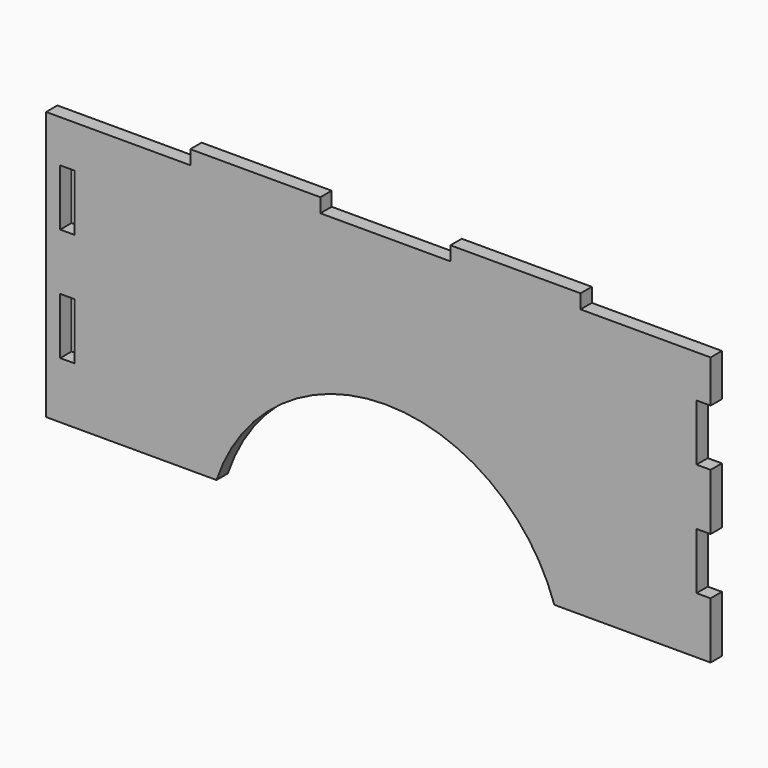
from build123d import *

# Parameters (mm, degrees)
F0_W     = 5
F0_H     = 20
F1_DEPTH = 5


with BuildPart() as f1:
    # F0 (on Front) → F1 (new body)
    with BuildSketch(Plane.XZ):
        with BuildLine():
            Line((59.741108, -47.5), (110, -47.5))
            Line((110, -47.5), (115, -47.5))
            Line((115, -47.5), (115, -27.5))
            Line((115, -27.5), (110, -27.5))
            Line((110, -27.5), (110, -7.5))
            Line((110, -7.5), (115, -7.5))
            Line((115, -7.5), (115, 12.5))
            Line((115, 12.5), (110, 12.5))
            Line((110, 12.5), (110, 32.5))
            Line((110, 32.5), (115, 32.5))
            Line((115, 32.5), (115, 47.5))
            Line((115, 47.5), (69, 47.5))
            Line((69, 47.5), (69, 52.5))
            Line((69, 52.5), (23, 52.5))
            Line((23, 52.5), (23, 47.5))
            Line((23, 47.5), (-23, 47.5))
            Line((-23, 47.5), (-23, 52.5))
            Line((-23, 52.5), (-69, 52.5))
            Line((-69, 52.5), (-69, 47.5))
            Line((-69, 47.5), (-115, 47.5))
            Line((-115, 47.5), (-120, 47.5))
            Line((-120, 47.5), (-120, -47.5))
            Line((-120, -47.5), (-115, -47.5))
            Line((-115, -47.5), (-110, -47.5))
            Line((-110, -47.5), (-59.741108, -47.5))
            ThreePointArc((-59.741108, -47.5), (0, -4.5), (59.741108, -47.5))
        make_face()
        Polygon((-110, -27.5), (-115, -27.5), (-115, -7.5), (-110, -7.5), (-110, -17.5), align=None, mode=Mode.SUBTRACT)
        with Locations((-112.5, 22.5)):
            Rectangle(F0_W, F0_H, mode=Mode.SUBTRACT)
    extrude(amount=F1_DEPTH)


solid = f1.part
